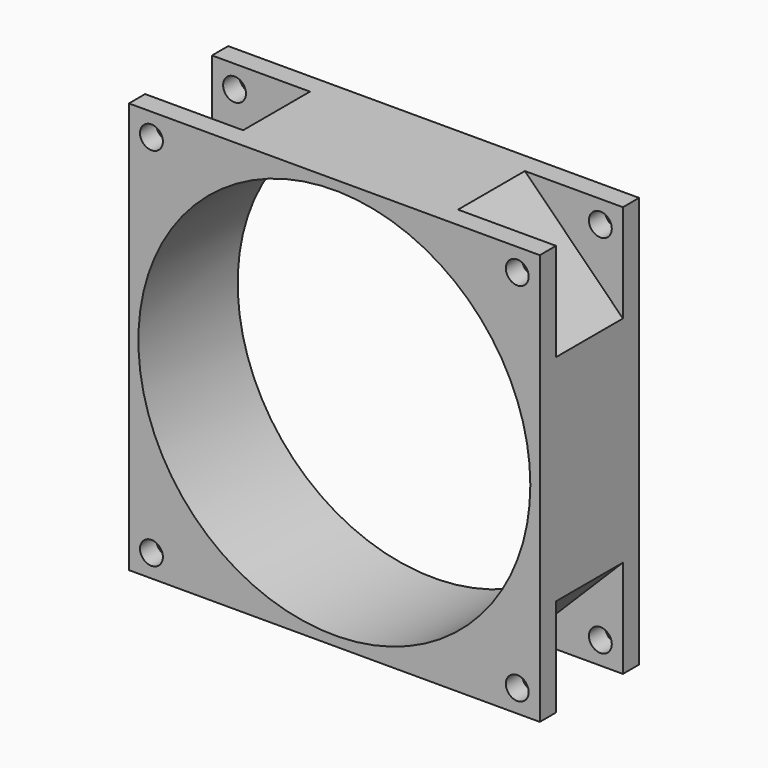
from build123d import *

# Parameters (mm, degrees)
F0_R     = 2.2225
F0_R_2   = 38.1
F1_DEPTH = 12.065
F2_DEPTH = 8.128


with BuildPart() as f1:
    # F0 (on Front) → F1 (new body, symmetric)
    with BuildSketch(Plane.XZ):
        Polygon((-20.8915, 39.9415), (-39.9415, 39.9415), (-39.9415, 20.8915), align=None)
        with Locations((-35.56, 35.56)):
            Circle(F0_R, mode=Mode.SUBTRACT)
        Polygon((20.8915, 39.9415), (-20.8915, 39.9415), (-39.9415, 20.8915), (-39.9415, -20.8915), (-20.8915, -39.9415), (20.8915, -39.9415), (39.9415, -20.8915), (39.9415, 20.8915), align=None)
        Circle(F0_R_2, mode=Mode.SUBTRACT)
        Polygon((39.9415, 39.9415), (20.8915, 39.9415), (39.9415, 20.8915), align=None)
        with Locations((35.56, 35.56)):
            Circle(F0_R, mode=Mode.SUBTRACT)
        Polygon((39.9415, -39.9415), (39.9415, -20.8915), (20.8915, -39.9415), align=None)
        with Locations((35.56, -35.56)):
            Circle(F0_R, mode=Mode.SUBTRACT)
        Polygon((-20.8915, -39.9415), (-39.9415, -20.8915), (-39.9415, -39.9415), align=None)
        with Locations((-35.56, -35.56)):
            Circle(F0_R, mode=Mode.SUBTRACT)
    extrude(amount=F1_DEPTH, both=True)

    # F0 (on Front) → F2 (cut, symmetric)
    with BuildSketch(Plane.XZ):
        Polygon((-20.8915, 39.9415), (-39.9415, 39.9415), (-39.9415, 20.8915), align=None)
        with Locations((-35.56, 35.56)):
            Circle(F0_R, mode=Mode.SUBTRACT)
        Polygon((39.9415, 39.9415), (20.8915, 39.9415), (39.9415, 20.8915), align=None)
        with Locations((35.56, 35.56)):
            Circle(F0_R, mode=Mode.SUBTRACT)
        Polygon((39.9415, -39.9415), (39.9415, -20.8915), (20.8915, -39.9415), align=None)
        with Locations((35.56, -35.56)):
            Circle(F0_R, mode=Mode.SUBTRACT)
        Polygon((-20.8915, -39.9415), (-39.9415, -20.8915), (-39.9415, -39.9415), align=None)
        with Locations((-35.56, -35.56)):
            Circle(F0_R, mode=Mode.SUBTRACT)
    extrude(amount=F2_DEPTH, both=True, mode=Mode.SUBTRACT)


solid = f1.part
